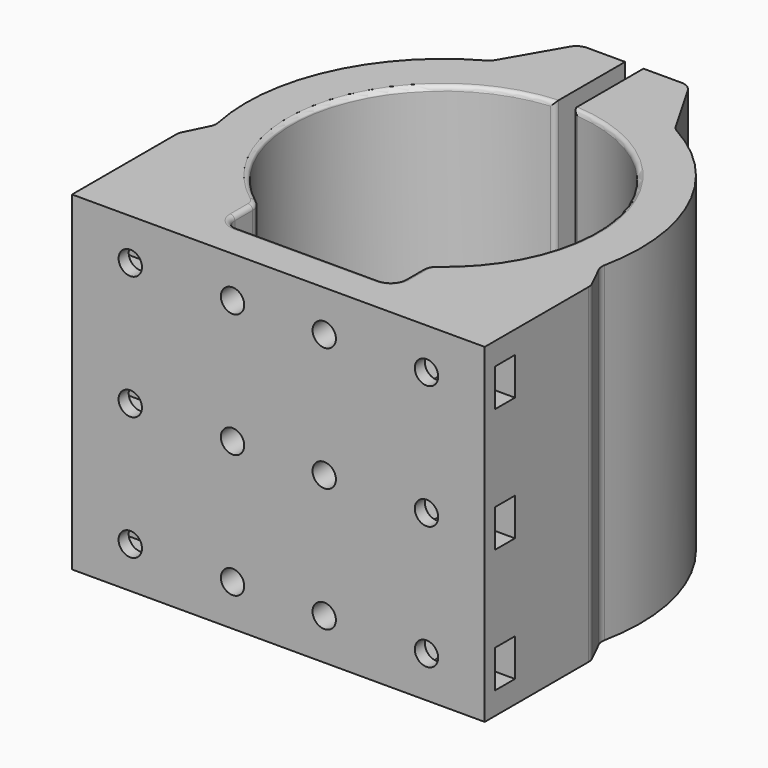
from build123d import *

# Parameters (mm, degrees)
F1_DEPTH       = 72
F2_R           = 2.55
F3_DEPTH       = 25
F4_R           = 2.55
F5_DEPTH       = 10
F6_R           = 3
F7_R           = 3
F8_R           = 3
F9_R           = 2
F10_DEPTH      = 25
F10_DEPTH_BACK = 25
F13_R          = 5
F14_DEPTH      = 15
F15_R          = 5
F16_DEPTH      = 15
F18_DEPTH      = 5.5
F19_R          = 3
F20_R          = 1


with BuildPart() as f1:
    # F0 (on Top) → F1 (new body)
    with BuildSketch(Plane.XY):
        with BuildLine():
            Line((-41.897575, -9.674357), (-45, -16))
            Line((-45, -16), (-45, -45))
            Line((-45, -45), (45, -45))
            Line((45, -45), (45, -16))
            Line((45, -16), (41.897575, -9.674357))
            ThreePointArc((41.897575, -9.674357), (39.104117, 17.884855), (20.082904, 38.022059))
            Line((20.082904, 38.022059), (12, 52.022059))
            Line((12, 52.022059), (2, 52.022059))
            Line((2, 52.022059), (2, 32.939338))
            ThreePointArc((2, 32.939338), (31.828637, 8.714233), (18.5, -27.326727))
            Line((18.5, -27.326727), (18.5, -36.75))
            Line((18.5, -36.75), (-18.5, -36.75))
            Line((-18.5, -36.75), (-18.5, -27.326727))
            ThreePointArc((-18.5, -27.326727), (-31.828637, 8.714233), (-2, 32.939338))
            Line((-2, 32.939338), (-2, 52.022059))
            Line((-2, 52.022059), (-12, 52.022059))
            Line((-12, 52.022059), (-20.082904, 38.022059))
            ThreePointArc((-20.082904, 38.022059), (-39.104117, 17.884855), (-41.897575, -9.674357))
        make_face()
    extrude(amount=F1_DEPTH)

    # F2 (on face) → F3 (cut)
    with BuildSketch(Plane.XZ.offset(45)):
        with Locations((-32.3, 9)):
            Circle(F2_R)
        with Locations((-10, 9)):
            Circle(F2_R)
        with Locations((10, 9)):
            Circle(F2_R)
        with Locations((32.3, 9)):
            Circle(F2_R)
        with Locations((32.3, 36)):
            Circle(F2_R)
        with Locations((10, 36)):
            Circle(F2_R)
        with Locations((-10, 36)):
            Circle(F2_R)
        with Locations((-32.3, 36)):
            Circle(F2_R)
        with Locations((-32.3, 63)):
            Circle(F2_R)
        with Locations((-10, 63)):
            Circle(F2_R)
        with Locations((10, 63)):
            Circle(F2_R)
        with Locations((32.3, 63)):
            Circle(F2_R)
    extrude(amount=-F3_DEPTH, mode=Mode.SUBTRACT)

    # F4 (on face) → F5 (cut)
    with BuildSketch(Plane(origin=(0, 0, 0), x_dir=(1, 0, 0), z_dir=(0, 0, -1))):
        with Locations((-37, 16)):
            Circle(F4_R)
        with Locations((37, 16)):
            Circle(F4_R)
    extrude(amount=-F5_DEPTH, mode=Mode.SUBTRACT)

    # F6
    f6_edges = [f1.edges().sort_by_distance(p)[0] for p in [
        (18.5, -27.326727, 36),
        (18.5, -36.75, 36),
        (-18.5, -27.326727, 36),
        (-18.5, -36.75, 36),
    ]]
    fillet(f6_edges, radius=F6_R)

    # F7
    f7_edges = [f1.edges().sort_by_distance(p)[0] for p in [
        (-41.897575, -9.674357, 36),
        (-45, -16, 36),
        (41.897575, -9.674357, 36),
        (45, -16, 36),
    ]]
    fillet(f7_edges, radius=F7_R)

    # F8
    f8_edges = [f1.edges().sort_by_distance(p)[0] for p in [
        (-20.082904, 38.022059, 36),
        (20.082904, 38.022059, 36),
    ]]
    fillet(f8_edges, radius=F8_R)

    # F9 (on Right) → F10 (cut, two sides)
    with BuildSketch(Plane.YZ) as f10_sk:
        with Locations((45.389666, 58.5)):
            Circle(F9_R)
        with Locations((45.389666, 36)):
            Circle(F9_R)
        with Locations((45.389666, 13.5)):
            Circle(F9_R)
    extrude(amount=F10_DEPTH, mode=Mode.SUBTRACT)
    extrude(f10_sk.sketch, amount=-F10_DEPTH_BACK, mode=Mode.SUBTRACT)

    # F13 (on offset) → F14 (cut)
    with BuildSketch(Plane.YZ.offset(25)):
        with Locations((45.389666, 58.5)):
            Circle(F13_R)
        with Locations((45.389666, 36)):
            Circle(F13_R)
        with Locations((45.389666, 13.5)):
            Circle(F13_R)
    extrude(amount=-F14_DEPTH, mode=Mode.SUBTRACT)

    # F15 (on offset) → F16 (cut)
    with BuildSketch(Plane.YZ.offset(-25)):
        with Locations((45.389666, 58.5)):
            Circle(F15_R)
        with Locations((45.389666, 36)):
            Circle(F15_R)
        with Locations((45.389666, 13.5)):
            Circle(F15_R)
    extrude(amount=F16_DEPTH, mode=Mode.SUBTRACT)

    # F17 (on face) → F18 (cut)
    with BuildSketch(Plane(origin=(0, -36.75, 0), x_dir=(-1, 0, 0), z_dir=(0, 1, 0))):
        Polygon((27.565728, 36), (29.932864, 31.9), (34.667136, 31.9), (54.795958, 31.9), (54.795958, 40.1), (34.667136, 40.1), (29.932864, 40.1), align=None)
        Polygon((27.565728, 63), (29.932864, 58.9), (34.667136, 58.9), (54.795958, 58.9), (54.795958, 67.1), (34.667136, 67.1), (29.932864, 67.1), align=None)
        Polygon((27.565728, 9), (29.932864, 4.9), (34.667136, 4.9), (54.795958, 4.9), (54.795958, 13.1), (34.667136, 13.1), (29.932864, 13.1), align=None)
        Polygon((-29.932864, 13.1), (-34.667136, 13.1), (-55.134665, 13.1), (-55.134665, 4.9), (-34.667136, 4.9), (-29.932864, 4.9), (-27.565728, 9), align=None)
        Polygon((-29.932864, 40.1), (-34.667136, 40.1), (-55.134665, 40.1), (-55.134665, 31.9), (-34.667136, 31.9), (-29.932864, 31.9), (-27.565728, 36), align=None)
        Polygon((-29.932864, 67.1), (-34.667136, 67.1), (-55.134665, 67.1), (-55.134665, 58.9), (-34.667136, 58.9), (-29.932864, 58.9), (-27.565728, 63), align=None)
    extrude(amount=-F18_DEPTH, mode=Mode.SUBTRACT)

    # F19
    f19_edges = [f1.edges().sort_by_distance(p)[0] for p in [
        (-12, 52.022059, 36),
        (12, 52.022059, 36),
    ]]
    fillet(f19_edges, radius=F19_R)

    # F20
    f20_edges = [f1.edges().sort_by_distance(p)[0] for p in [
        (2, 32.939338, 36),
        (-2, 32.939338, 36),
        (31.624924, 9.426781, 72),
    ]]
    fillet(f20_edges, radius=F20_R)


solid = f1.part
